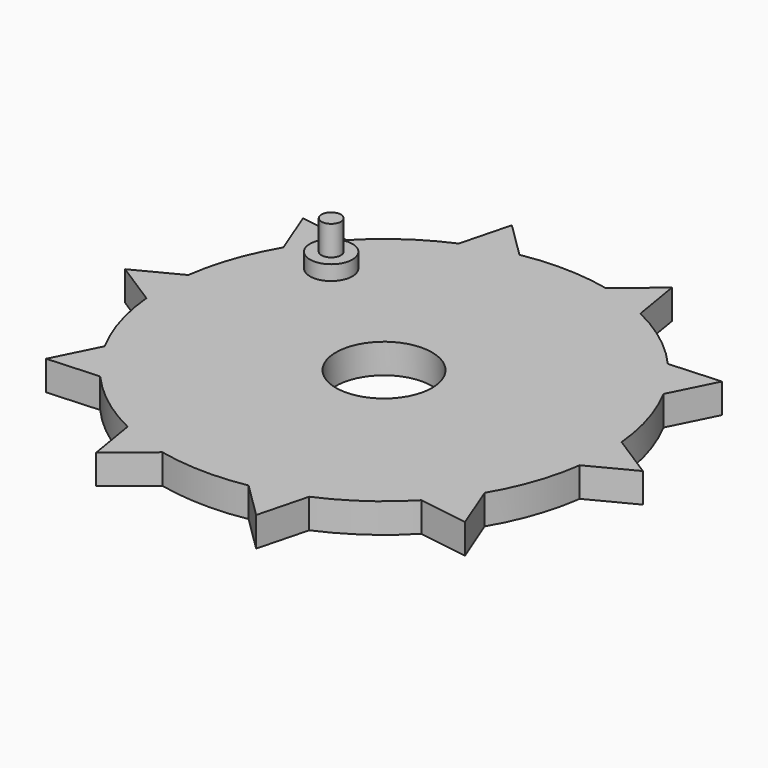
from build123d import *

# Parameters (mm, degrees)
F1_DEPTH = 5.08
F2_R     = 3.6481835691
F3_DEPTH = 2.54
F4_R     = 1.6674700951
F5_DEPTH = 5.08
F6_R     = 8.255
F7_DEPTH = 25.4


with BuildPart() as f1:
    # F0 (on Top) → F1 (new body)
    with BuildSketch(Plane.XY):
        with BuildLine():
            ThreePointArc((37.7468732805, -5.1752833301), (38.0116158035, -2.5936584214), (38.1, 0))
            ThreePointArc((38.1, 0), (38.0577032994, 1.7947756344), (37.9309071088, 3.5855663298))
            Line((37.9309071088, 3.5855663298), (34.7138681986, 5.6416139149))
            Line((34.7138681986, 5.6416139149), (34.1414945044, -7.0454814325))
            Line((34.1414945044, -7.0454814325), (37.7468732805, -5.1752833301))
        make_face()
        with BuildLine():
            ThreePointArc((37.9309071088, 3.5855663298), (38.0577032994, 1.7947756344), (38.1, 0))
            ThreePointArc((38.1, 0), (38.0116158035, -2.5936584214), (37.7468732805, -5.1752833301))
            Line((37.7468732805, -5.1752833301), (45.4150282226, -1.1976239184))
            Line((45.4150282226, -1.1976239184), (37.9309071088, 3.5855663298))
        make_face()
        with BuildLine():
            Line((34.7138681986, 5.6416139149), (37.9309071088, 3.5855663298))
            ThreePointArc((37.9309071088, 3.5855663298), (36.4745263648, 11.0099467057), (33.5798171863, 18.0001632696))
            Line((33.5798171863, 18.0001632696), (31.7622793488, 14.3679527485))
            Line((31.7622793488, 14.3679527485), (24.7680518549, 24.9684613101))
            Line((24.7680518549, 24.9684613101), (28.5792054533, 25.1960118999))
            ThreePointArc((28.5792054533, 25.1960118999), (23.0370273887, 30.3464226737), (16.586412263, 34.3001593035))
            Line((16.586412263, 34.3001593035), (17.250953042, 30.2933173283))
            Line((17.250953042, 30.2933173283), (5.3616815377, 34.7582051315))
            Line((5.3616815377, 34.7582051315), (8.3112186861, 37.1824373052))
            ThreePointArc((8.3112186861, 37.1824373052), (0.8001669499, 38.0915966173), (-6.7424383934, 37.4986603029))
            Line((-6.7424383934, 37.4986603029), (-3.8496509884, 34.6476643207))
            Line((-3.8496509884, 34.6476643207), (-16.0926688901, 31.2714959807))
            Line((-16.0926688901, 31.2714959807), (-15.1313711312, 34.9664354444))
            ThreePointArc((-15.1313711312, 34.9664354444), (-21.7423300671, 31.2870753388), (-27.4959067505, 26.3739475992))
            Line((-27.4959067505, 26.3739475992), (-23.4798191861, 25.7677811734))
            Line((-23.4798191861, 25.7677811734), (-31.4001667715, 15.8401382443))
            Line((-31.4001667715, 15.8401382443), (-32.7942914728, 19.3944437094))
            ThreePointArc((-32.7942914728, 19.3944437094), (-35.9799959931, 12.5319546895), (-37.7468732805, 5.1752833301))
            Line((-37.7468732805, 5.1752833301), (-34.1414945044, 7.0454814325))
            Line((-34.1414945044, 7.0454814325), (-34.7138681986, -5.6416139149))
            Line((-34.7138681986, -5.6416139149), (-37.9309071088, -3.5855663298))
            ThreePointArc((-37.9309071088, -3.5855663298), (-36.4745263648, -11.0099467057), (-33.5798171863, -18.0001632696))
            Line((-33.5798171863, -18.0001632696), (-31.7622793488, -14.3679527485))
            Line((-31.7622793488, -14.3679527485), (-24.7680518549, -24.9684613101))
            Line((-24.7680518549, -24.9684613101), (-28.5792054533, -25.1960118999))
            ThreePointArc((-28.5792054533, -25.1960118999), (-23.0370273887, -30.3464226737), (-16.586412263, -34.3001593035))
            Line((-16.586412263, -34.3001593035), (-17.250953042, -30.2933173283))
            Line((-17.250953042, -30.2933173283), (-5.3616815377, -34.7582051315))
            Line((-5.3616815377, -34.7582051315), (-8.3112186861, -37.1824373052))
            ThreePointArc((-8.3112186861, -37.1824373052), (-0.8001669499, -38.0915966173), (6.7424383934, -37.4986603029))
            Line((6.7424383934, -37.4986603029), (3.8496509884, -34.6476643207))
            Line((3.8496509884, -34.6476643207), (16.0926688901, -31.2714959807))
            Line((16.0926688901, -31.2714959807), (15.1313711312, -34.9664354444))
            ThreePointArc((15.1313711312, -34.9664354444), (21.7423300671, -31.2870753388), (27.4959067505, -26.3739475992))
            Line((27.4959067505, -26.3739475992), (23.4798191861, -25.7677811734))
            Line((23.4798191861, -25.7677811734), (31.4001667715, -15.8401382443))
            Line((31.4001667715, -15.8401382443), (32.7942914728, -19.3944437094))
            ThreePointArc((32.7942914728, -19.3944437094), (35.9799959931, -12.5319546895), (37.7468732805, -5.1752833301))
            Line((37.7468732805, -5.1752833301), (34.1414945044, -7.0454814325))
            Line((34.1414945044, -7.0454814325), (34.7138681986, 5.6416139149))
        make_face()
        with BuildLine():
            Line((31.7622793488, 14.3679527485), (33.5798171863, 18.0001632696))
            ThreePointArc((33.5798171863, 18.0001632696), (31.2870753388, 21.7423300671), (28.5792054533, 25.1960118999))
            Line((28.5792054533, 25.1960118999), (24.7680518549, 24.9684613101))
            Line((24.7680518549, 24.9684613101), (31.7622793488, 14.3679527485))
        make_face()
        with BuildLine():
            ThreePointArc((28.5792054533, 25.1960118999), (31.2870753388, 21.7423300671), (33.5798171863, 18.0001632696))
            Line((33.5798171863, 18.0001632696), (37.4454753092, 25.7253857188))
            Line((37.4454753092, 25.7253857188), (28.5792054533, 25.1960118999))
        make_face()
        with BuildLine():
            Line((36.0375839551, -27.6631819246), (32.7942914728, -19.3944437094))
            ThreePointArc((32.7942914728, -19.3944437094), (30.3464226737, -23.0370273887), (27.4959067505, -26.3739475992))
            Line((27.4959067505, -26.3739475992), (36.0375839551, -27.6631819246))
        make_face()
        with BuildLine():
            ThreePointArc((27.4959067505, -26.3739475992), (30.3464226737, -23.0370273887), (32.7942914728, -19.3944437094))
            Line((32.7942914728, -19.3944437094), (31.4001667715, -15.8401382443))
            Line((31.4001667715, -15.8401382443), (23.4798191861, -25.7677811734))
            Line((23.4798191861, -25.7677811734), (27.4959067505, -26.3739475992))
        make_face()
        with BuildLine():
            Line((17.250953042, 30.2933173283), (16.586412263, 34.3001593035))
            ThreePointArc((16.586412263, 34.3001593035), (12.5319546895, 35.9799959931), (8.3112186861, 37.1824373052))
            Line((8.3112186861, 37.1824373052), (5.3616815377, 34.7582051315))
            Line((5.3616815377, 34.7582051315), (17.250953042, 30.2933173283))
        make_face()
        with BuildLine():
            ThreePointArc((8.3112186861, 37.1824373052), (12.5319546895, 35.9799959931), (16.586412263, 34.3001593035))
            Line((16.586412263, 34.3001593035), (15.1730235525, 42.8221723852))
            Line((15.1730235525, 42.8221723852), (8.3112186861, 37.1824373052))
        make_face()
        with BuildLine():
            Line((12.8950074891, -43.5623446725), (15.1313711312, -34.9664354444))
            ThreePointArc((15.1313711312, -34.9664354444), (11.0099467057, -36.4745263648), (6.7424383934, -37.4986603029))
            Line((6.7424383934, -37.4986603029), (12.8950074891, -43.5623446725))
        make_face()
        with BuildLine():
            ThreePointArc((6.7424383934, -37.4986603029), (11.0099467057, -36.4745263648), (15.1313711312, -34.9664354444))
            Line((15.1313711312, -34.9664354444), (16.0926688901, -31.2714959807))
            Line((16.0926688901, -31.2714959807), (3.8496509884, -34.6476643207))
            Line((3.8496509884, -34.6476643207), (6.7424383934, -37.4986603029))
        make_face()
        with BuildLine():
            Line((-3.8496509884, 34.6476643207), (-6.7424383934, 37.4986603029))
            ThreePointArc((-6.7424383934, 37.4986603029), (-11.0099467057, 36.4745263648), (-15.1313711312, 34.9664354444))
            Line((-15.1313711312, 34.9664354444), (-16.0926688901, 31.2714959807))
            Line((-16.0926688901, 31.2714959807), (-3.8496509884, 34.6476643207))
        make_face()
        with BuildLine():
            ThreePointArc((-15.1313711312, 34.9664354444), (-11.0099467057, 36.4745263648), (-6.7424383934, 37.4986603029))
            Line((-6.7424383934, 37.4986603029), (-12.8950074891, 43.5623446725))
            Line((-12.8950074891, 43.5623446725), (-15.1313711312, 34.9664354444))
        make_face()
        with BuildLine():
            Line((-15.1730235525, -42.8221723852), (-8.3112186861, -37.1824373052))
            ThreePointArc((-8.3112186861, -37.1824373052), (-12.5319546895, -35.9799959931), (-16.586412263, -34.3001593035))
            Line((-16.586412263, -34.3001593035), (-15.1730235525, -42.8221723852))
        make_face()
        with BuildLine():
            ThreePointArc((-16.586412263, -34.3001593035), (-12.5319546895, -35.9799959931), (-8.3112186861, -37.1824373052))
            Line((-8.3112186861, -37.1824373052), (-5.3616815377, -34.7582051315))
            Line((-5.3616815377, -34.7582051315), (-17.250953042, -30.2933173283))
            Line((-17.250953042, -30.2933173283), (-16.586412263, -34.3001593035))
        make_face()
        with BuildLine():
            Line((-23.4798191861, 25.7677811734), (-27.4959067505, 26.3739475992))
            ThreePointArc((-27.4959067505, 26.3739475992), (-30.3464226737, 23.0370273887), (-32.7942914728, 19.3944437094))
            Line((-32.7942914728, 19.3944437094), (-31.4001667715, 15.8401382443))
            Line((-31.4001667715, 15.8401382443), (-23.4798191861, 25.7677811734))
        make_face()
        with BuildLine():
            ThreePointArc((-32.7942914728, 19.3944437094), (-30.3464226737, 23.0370273887), (-27.4959067505, 26.3739475992))
            Line((-27.4959067505, 26.3739475992), (-36.0375839551, 27.6631819246))
            Line((-36.0375839551, 27.6631819246), (-32.7942914728, 19.3944437094))
        make_face()
        with BuildLine():
            Line((-37.4454753092, -25.7253857188), (-28.5792054533, -25.1960118999))
            ThreePointArc((-28.5792054533, -25.1960118999), (-31.2870753388, -21.7423300671), (-33.5798171863, -18.0001632696))
            Line((-33.5798171863, -18.0001632696), (-37.4454753092, -25.7253857188))
        make_face()
        with BuildLine():
            ThreePointArc((-33.5798171863, -18.0001632696), (-31.2870753388, -21.7423300671), (-28.5792054533, -25.1960118999))
            Line((-28.5792054533, -25.1960118999), (-24.7680518549, -24.9684613101))
            Line((-24.7680518549, -24.9684613101), (-31.7622793488, -14.3679527485))
            Line((-31.7622793488, -14.3679527485), (-33.5798171863, -18.0001632696))
        make_face()
        with BuildLine():
            Line((-34.1414945044, 7.0454814325), (-37.7468732805, 5.1752833301))
            ThreePointArc((-37.7468732805, 5.1752833301), (-38.0915966173, 0.8001669499), (-37.9309071088, -3.5855663298))
            Line((-37.9309071088, -3.5855663298), (-34.7138681986, -5.6416139149))
            Line((-34.7138681986, -5.6416139149), (-34.1414945044, 7.0454814325))
        make_face()
        with BuildLine():
            ThreePointArc((-37.9309071088, -3.5855663298), (-38.0915966173, 0.8001669499), (-37.7468732805, 5.1752833301))
            Line((-37.7468732805, 5.1752833301), (-45.4150282226, 1.1976239184))
            Line((-45.4150282226, 1.1976239184), (-37.9309071088, -3.5855663298))
        make_face()
    extrude(amount=F1_DEPTH)

    # F2 (on face) → F3 (join)
    with BuildSketch(Plane.XY.offset(5.08)):
        with Locations((-23.9648092538, 18.6180789024)):
            Circle(F2_R)
    extrude(amount=F3_DEPTH)

    # F4 (on face) → F5 (join)
    with BuildSketch(Plane.XY.offset(7.62)):
        with Locations((-23.9648092538, 18.6180789024)):
            Circle(F4_R)
    extrude(amount=F5_DEPTH)

    # F6 (on face) → F7 (cut)
    with BuildSketch(Plane.XY.offset(5.08)):
        Circle(F6_R)
    extrude(amount=-F7_DEPTH, mode=Mode.SUBTRACT)


solid = f1.part
